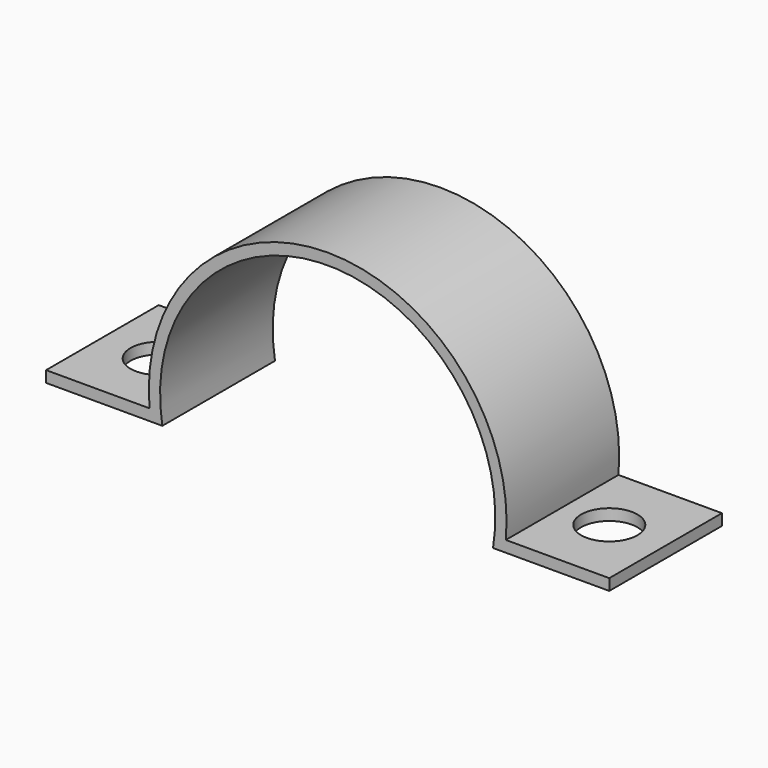
from build123d import *

# Parameters (mm, degrees)
F1_DEPTH = 15.875
F3_D     = 6.35


with BuildPart() as f1:
    # F0 (on Front) → F1 (new body)
    with BuildSketch(Plane.XZ):
        with BuildLine():
            Line((-39.947468, -18.41737), (-26.839392, -18.41737))
            ThreePointArc((-26.839392, -18.41737), (-8.197468, 3.58263), (10.444455, -18.41737))
            Line((10.444455, -18.41737), (23.552532, -18.41737))
            Line((23.552532, -18.41737), (23.552532, -17.14737))
            Line((23.552532, -17.14737), (11.887384, -17.14737))
            ThreePointArc((11.887384, -17.14737), (-8.197468, 4.85263), (-28.282321, -17.14737))
            Line((-28.282321, -17.14737), (-39.947468, -17.14737))
            Line((-39.947468, -17.14737), (-39.947468, -18.41737))
        make_face()
    extrude(amount=F1_DEPTH)

    # F3 (through all)
    with Locations(Plane(origin=(0, 0, -18.41737), x_dir=(1, 0, 0), z_dir=(0, 0, -1))):
        with Locations((-33.597468, 7.9375), (17.202532, 7.9375)):
            Hole(F3_D / 2)


solid = f1.part
